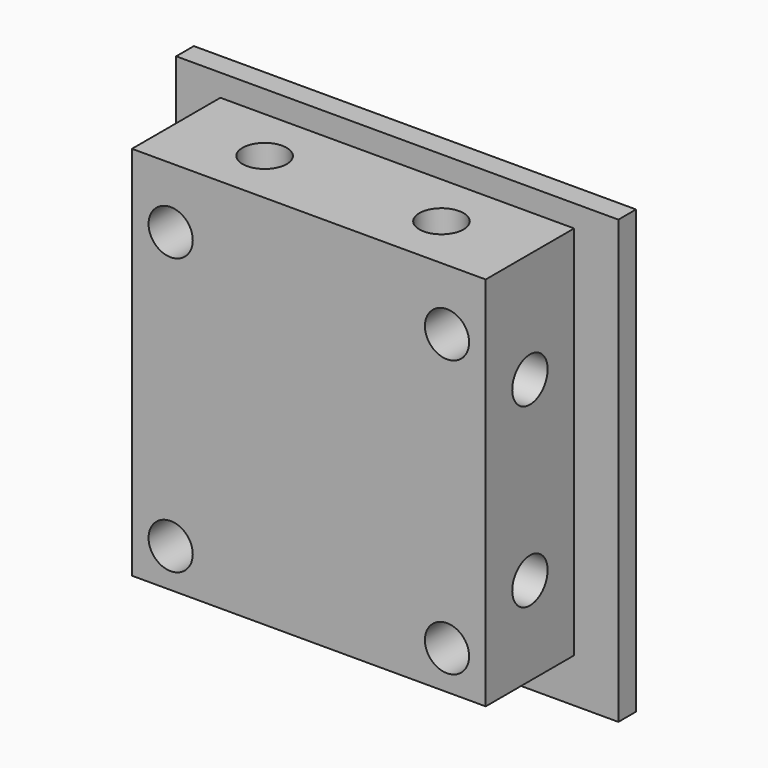
from build123d import *

# Parameters (mm, degrees)
SKETCH032_W     = 40
SKETCH032_H     = 40
SKETCH032_R     = 2
PAD018_DEPTH    = 2
SKETCH033_W     = 32
SKETCH033_H     = 34
SKETCH033_R     = 2
PAD019_DEPTH    = 10
SKETCH034_R     = 2
POCKET013_DEPTH = 8
SKETCH035_R     = 2
POCKET014_DEPTH = 8
SKETCH039_R     = 2
POCKET015_DEPTH = 8


with BuildPart() as part:
    # Sketch032 → Pad018 (new body)
    with BuildSketch(Plane.XZ):
        with Locations((0, 20)):
            Rectangle(SKETCH032_W, SKETCH032_H)
        with Locations((-12.5, 7.5)):
            Circle(SKETCH032_R, mode=Mode.SUBTRACT)
        with Locations((-12.5, 32.5)):
            Circle(SKETCH032_R, mode=Mode.SUBTRACT)
        with Locations((12.5, 32.5)):
            Circle(SKETCH032_R, mode=Mode.SUBTRACT)
        with Locations((12.5, 7.5)):
            Circle(SKETCH032_R, mode=Mode.SUBTRACT)
    extrude(amount=-PAD018_DEPTH)

    # Sketch033 (on Face9 of Pad018) → Pad019 (join)
    with BuildSketch(Plane.XZ):
        with Locations((0, 21)):
            Rectangle(SKETCH033_W, SKETCH033_H)
        with Locations((-12.5, 32.5)):
            Circle(SKETCH033_R, mode=Mode.SUBTRACT)
        with Locations((12.5, 32.5)):
            Circle(SKETCH033_R, mode=Mode.SUBTRACT)
        with Locations((-12.5, 7.5)):
            Circle(SKETCH033_R, mode=Mode.SUBTRACT)
        with Locations((12.5, 7.5)):
            Circle(SKETCH033_R, mode=Mode.SUBTRACT)
    extrude(amount=PAD019_DEPTH)

    # Sketch034 (on Face10 of Pad019) → Pocket013 (cut)
    with BuildSketch(Plane(origin=(-16, 0, 0), x_dir=(0, 0, -1), z_dir=(-1, 0, 0))):
        with Locations((-28, 5)):
            Circle(SKETCH034_R)
        with Locations((-12, 5)):
            Circle(SKETCH034_R)
    extrude(amount=-POCKET013_DEPTH, mode=Mode.SUBTRACT)

    # Sketch035 (on Face7 of Pocket013) → Pocket014 (cut)
    with BuildSketch(Plane(origin=(0, 0, 38), x_dir=(-1, 0, 0), z_dir=(0, 0, 1))):
        with Locations((-8, 5)):
            Circle(SKETCH035_R)
        with Locations((8, 5)):
            Circle(SKETCH035_R)
    extrude(amount=-POCKET014_DEPTH, mode=Mode.SUBTRACT)

    # Sketch039 (on Face8 of Pocket014) → Pocket015 (cut)
    with BuildSketch(Plane(origin=(16, 0, 0), x_dir=(0, 0, 1), z_dir=(1, 0, 0))):
        with Locations((12, 5)):
            Circle(SKETCH039_R)
        with Locations((28, 5)):
            Circle(SKETCH039_R)
    extrude(amount=-POCKET015_DEPTH, mode=Mode.SUBTRACT)


solid = part.part
